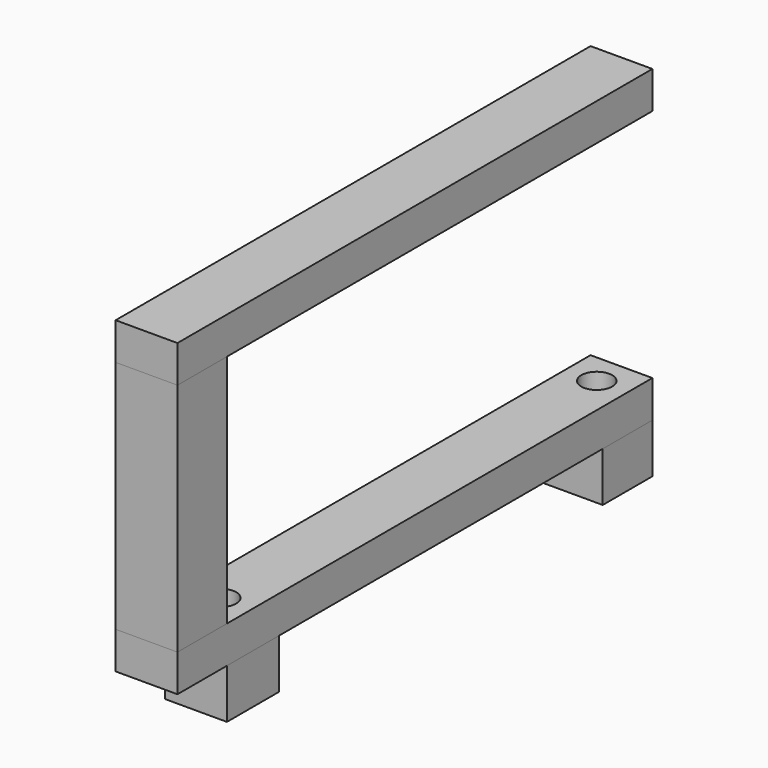
from build123d import *

# Parameters (mm, degrees)
SKETCH_R         = 1.25
PAD_DEPTH        = 3
SKETCH002_W      = 5
SKETCH002_H      = 5
EXTRUDE_DEPTH    = 19
SKETCH003_W      = 5
SKETCH003_H      = 48
EXTRUDE001_DEPTH = 3
EXTRUDE002_DEPTH = 3
SKETCH004_W      = 5
SKETCH004_H      = 5.019411
SKETCH004_R      = 1.725
SKETCH004_H_2    = 5.242643
EXTRUDE003_DEPTH = 3
EXTRUDE004_DEPTH = 4
EXTRUDE005_DEPTH = 4
EXTRUDE006_DEPTH = 4


with BuildPart() as body:
    # Sketch → Pad (new body)
    with BuildSketch(Plane.XY):
        Polygon((-2.5, 21.5), (-2.5, -21.5), (-2.5, -26.5), (2.5, -26.5), (2.5, -21.5), (2.5, 21.5), align=None)
        with Locations((0, 19)):
            Circle(SKETCH_R, mode=Mode.SUBTRACT)
        with Locations((0, -19)):
            Circle(SKETCH_R, mode=Mode.SUBTRACT)
    extrude(amount=PAD_DEPTH)


with BuildPart() as extrude_body:
    # Sketch002 (on Face10 of Pad) → Extrude (new body)
    with BuildSketch(Plane.XY.offset(3)):
        with Locations((0, -24)):
            Rectangle(SKETCH002_W, SKETCH002_H)
    extrude(amount=EXTRUDE_DEPTH)


with BuildPart() as extrude001:
    # Sketch003 (on Face6 of Extrude) → Extrude001 (new body)
    with BuildSketch(Plane.XY.offset(22)):
        with Locations((0, -2.5)):
            Rectangle(SKETCH003_W, SKETCH003_H)
    extrude(amount=EXTRUDE001_DEPTH)


with BuildPart() as extrude002:
    # Sketch003 (on Face6 of Extrude) → Extrude002 (new body)
    with BuildSketch(Plane.XY.offset(22)):
        with Locations((0, -2.5)):
            Rectangle(SKETCH003_W, SKETCH003_H)
    extrude(amount=EXTRUDE002_DEPTH)


with BuildPart() as extrude003:
    # Sketch004 (on Face9 of Pad) → Extrude003 (new body)
    with BuildSketch(Plane(origin=(0, 0, 0), x_dir=(1, 0, 0), z_dir=(0, 0, -1))):
        with Locations((0, -18.990294)):
            Rectangle(SKETCH004_W, SKETCH004_H)
        with Locations((0, -19)):
            Circle(SKETCH004_R, mode=Mode.SUBTRACT)
        with Locations((0, 18.878678)):
            Rectangle(SKETCH004_W, SKETCH004_H_2)
        with Locations((0, 19)):
            Circle(SKETCH004_R, mode=Mode.SUBTRACT)
    extrude(amount=EXTRUDE003_DEPTH)


with BuildPart() as extrude004:
    # Sketch004 (on Face9 of Pad) → Extrude004 (new body)
    with BuildSketch(Plane(origin=(0, 0, 0), x_dir=(1, 0, 0), z_dir=(0, 0, -1))):
        with Locations((0, -18.990294)):
            Rectangle(SKETCH004_W, SKETCH004_H)
        with Locations((0, -19)):
            Circle(SKETCH004_R, mode=Mode.SUBTRACT)
        with Locations((0, 18.878678)):
            Rectangle(SKETCH004_W, SKETCH004_H_2)
        with Locations((0, 19)):
            Circle(SKETCH004_R, mode=Mode.SUBTRACT)
    extrude(amount=EXTRUDE004_DEPTH)


with BuildPart() as extrude005:
    # Sketch004 (on Face9 of Pad) → Extrude005 (new body)
    with BuildSketch(Plane(origin=(0, 0, 0), x_dir=(1, 0, 0), z_dir=(0, 0, -1))):
        with Locations((0, -18.990294)):
            Rectangle(SKETCH004_W, SKETCH004_H)
        with Locations((0, -19)):
            Circle(SKETCH004_R, mode=Mode.SUBTRACT)
        with Locations((0, 18.878678)):
            Rectangle(SKETCH004_W, SKETCH004_H_2)
        with Locations((0, 19)):
            Circle(SKETCH004_R, mode=Mode.SUBTRACT)
    extrude(amount=EXTRUDE005_DEPTH)


with BuildPart() as extrude006:
    # Sketch004 (on Face9 of Pad) → Extrude006 (new body)
    with BuildSketch(Plane(origin=(0, 0, 0), x_dir=(1, 0, 0), z_dir=(0, 0, -1))):
        with Locations((0, -18.990294)):
            Rectangle(SKETCH004_W, SKETCH004_H)
        with Locations((0, -19)):
            Circle(SKETCH004_R, mode=Mode.SUBTRACT)
        with Locations((0, 18.878678)):
            Rectangle(SKETCH004_W, SKETCH004_H_2)
        with Locations((0, 19)):
            Circle(SKETCH004_R, mode=Mode.SUBTRACT)
    extrude(amount=EXTRUDE006_DEPTH)


solid = Compound([body.part, extrude_body.part, extrude001.part, extrude002.part, extrude003.part, extrude004.part, extrude005.part, extrude006.part])
